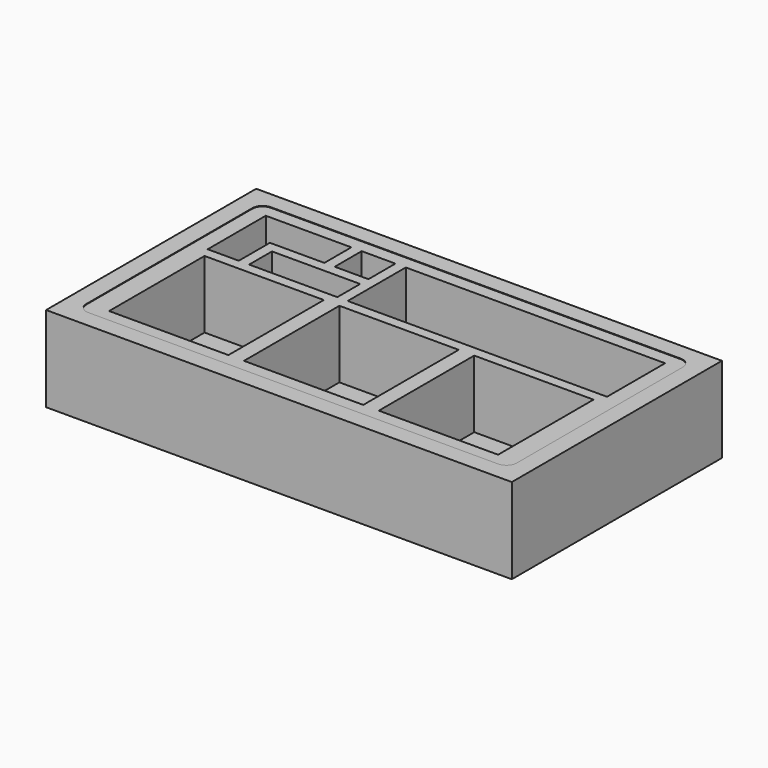
from build123d import *

# Parameters (mm, degrees)
F0_W     = 1140.46
F0_H     = 643.128
F1_DEPTH = 209.55
F3_DEPTH = 191.77
F4_W     = 977.9
F4_H     = 495.3
F5_DEPTH = 190.5
F6_DEPTH = 25.4
F7_W     = 215.9
F7_H     = 69.85
F8_DEPTH = 165.1


with BuildPart() as f1:
    # F0 (on Top) → F1 (new body)
    with BuildSketch(Plane.XY):
        with Locations((525.78, 279.4)):
            Rectangle(F0_W, F0_H)
    extrude(amount=F1_DEPTH)

    # F2 (on face) → F3 (cut)
    with BuildSketch(Plane.XY.offset(209.55)):
        with BuildLine():
            ThreePointArc((0, 25.4), (7.4394877579, 7.4394877579), (25.4, 0))
            Line((25.4, 0), (1028.7, 0))
            ThreePointArc((1028.7, 0), (1046.6605122421, 7.4394877579), (1054.1, 25.4))
            Line((1054.1, 25.4), (1054.1, 533.4))
            ThreePointArc((1054.1, 533.4), (1046.6605122421, 551.3605122421), (1028.7, 558.8))
            Line((1028.7, 558.8), (25.4, 558.8))
            ThreePointArc((25.4, 558.8), (7.4394877579, 551.3605122421), (0, 533.4))
            Line((0, 533.4), (0, 25.4))
        make_face()
    extrude(amount=-F3_DEPTH, mode=Mode.SUBTRACT)

    # F4 (on face) → F5 (join)
    with BuildSketch(Plane.XY.offset(17.78)):
        with BuildLine():
            ThreePointArc((0, 25.4), (7.4394877579, 7.4394877579), (25.4, 0))
            Line((25.4, 0), (1028.7, 0))
            ThreePointArc((1028.7, 0), (1046.6605122421, 7.4394877579), (1054.1, 25.4))
            Line((1054.1, 25.4), (1054.1, 533.4))
            ThreePointArc((1054.1, 533.4), (1046.6605122421, 551.3605122421), (1028.7, 558.8))
            Line((1028.7, 558.8), (25.4, 558.8))
            ThreePointArc((25.4, 558.8), (7.4394877579, 551.3605122421), (0, 533.4))
            Line((0, 533.4), (0, 25.4))
        make_face()
        with Locations((527.05, 279.4)):
            Rectangle(F4_W, F4_H, mode=Mode.SUBTRACT)
    extrude(amount=F5_DEPTH)

    # F6 (add): a face of the model
    f6_faces = [f1.faces().sort_by_distance(p)[0] for p in [
        (527.05, 279.4, 17.78),
    ]]
    extrude(f6_faces, amount=F6_DEPTH)

    # F7 (on face) → F8 (join)
    with BuildSketch(Plane.XY.offset(208.28)):
        Polygon((1003.3, 31.75), (1016, 31.75), (1016, 323.85), (1016, 349.25), (381, 349.25), (381, 527.05), (355.6, 527.05), (355.6, 444.5), (273.05, 444.5), (273.05, 527.05), (247.65, 527.05), (247.65, 444.5), (114.3, 444.5), (114.3, 349.25), (38.1, 349.25), (38.1, 323.85), (38.1, 31.75), (50.8, 31.75), (50.8, 323.85), (342.9, 323.85), (342.9, 31.75), (381, 31.75), (381, 323.85), (673.1, 323.85), (673.1, 31.75), (711.2, 31.75), (711.2, 323.85), (1003.3, 323.85), align=None)
        with Locations((247.65, 384.175)):
            Rectangle(F7_W, F7_H, mode=Mode.SUBTRACT)
    extrude(amount=-F8_DEPTH)


solid = f1.part
